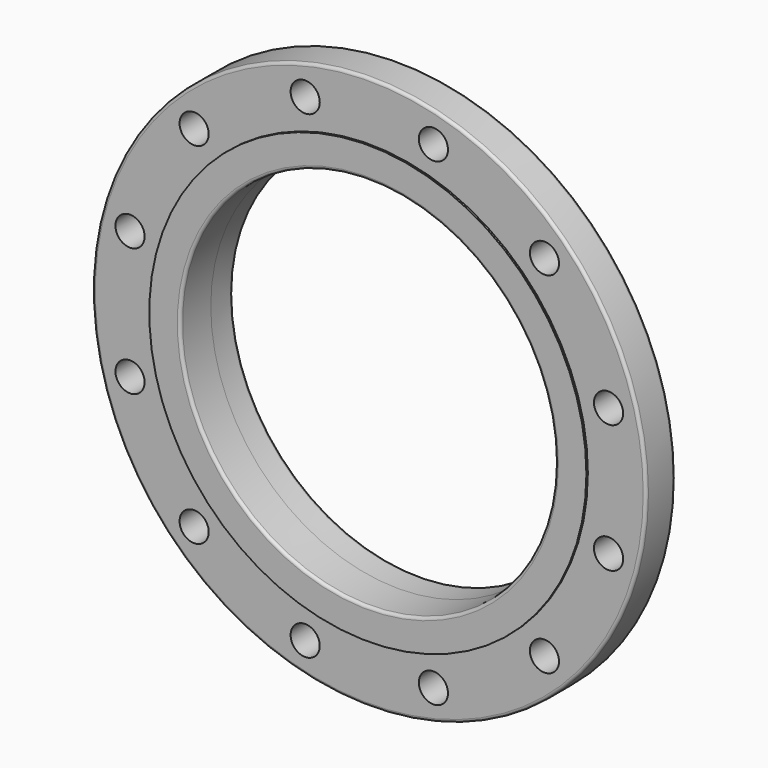
from build123d import *

# Parameters (mm, degrees)
F0_R     = 241.3
F0_R_2   = 12.7
F0_R_3   = 163.576
F1_DEPTH = 31.75
F2_R     = 190.5
F2_R_2   = 163.576
F3_DEPTH = 1.5875
F4_R     = 182.626
F4_R_2   = 163.576
F5_DEPTH = 23.876
F6_R     = 2.54


with BuildPart() as f1:
    # F0 (on Front) → F1 (new body)
    with BuildSketch(Plane.XZ):
        Circle(F0_R)
        with Locations((-152.664354, -152.664354)):
            Circle(F0_R_2, mode=Mode.SUBTRACT)
        with Locations((-55.879032, -208.543386)):
            Circle(F0_R_2, mode=Mode.SUBTRACT)
        with Locations((-208.543386, -55.879032)):
            Circle(F0_R_2, mode=Mode.SUBTRACT)
        with Locations((55.879032, -208.543386)):
            Circle(F0_R_2, mode=Mode.SUBTRACT)
        with Locations((152.664354, -152.664354)):
            Circle(F0_R_2, mode=Mode.SUBTRACT)
        with Locations((208.543386, -55.879032)):
            Circle(F0_R_2, mode=Mode.SUBTRACT)
        with Locations((-208.543386, 55.879032)):
            Circle(F0_R_2, mode=Mode.SUBTRACT)
        with Locations((-152.664354, 152.664354)):
            Circle(F0_R_2, mode=Mode.SUBTRACT)
        with Locations((-55.879032, 208.543386)):
            Circle(F0_R_2, mode=Mode.SUBTRACT)
        Circle(F0_R_3, mode=Mode.SUBTRACT)
        with Locations((208.543386, 55.879032)):
            Circle(F0_R_2, mode=Mode.SUBTRACT)
        with Locations((55.879032, 208.543386)):
            Circle(F0_R_2, mode=Mode.SUBTRACT)
        with Locations((152.664354, 152.664354)):
            Circle(F0_R_2, mode=Mode.SUBTRACT)
    extrude(amount=F1_DEPTH)

    # F2 (on face) → F3 (join)
    with BuildSketch(Plane.XZ.offset(31.75)):
        Circle(F2_R)
        Circle(F2_R_2, mode=Mode.SUBTRACT)
    extrude(amount=F3_DEPTH)

    # F4 (on face) → F5 (join)
    with BuildSketch(Plane(origin=(0, 0, 0), x_dir=(-1, 0, 0), z_dir=(0, 1, 0))):
        Circle(F4_R)
        Circle(F4_R_2, mode=Mode.SUBTRACT)
    extrude(amount=F5_DEPTH)

    # F6
    f6_edges = [f1.edges().sort_by_distance(p)[0] for p in [
        (163.576, 23.876, 0),
        (182.626, 23.876, 0),
        (-241.3, 0, 0),
        (-241.3, -31.75, 0),
        (-163.576, -33.3375, 0),
    ]]
    fillet(f6_edges, radius=F6_R)


solid = f1.part
